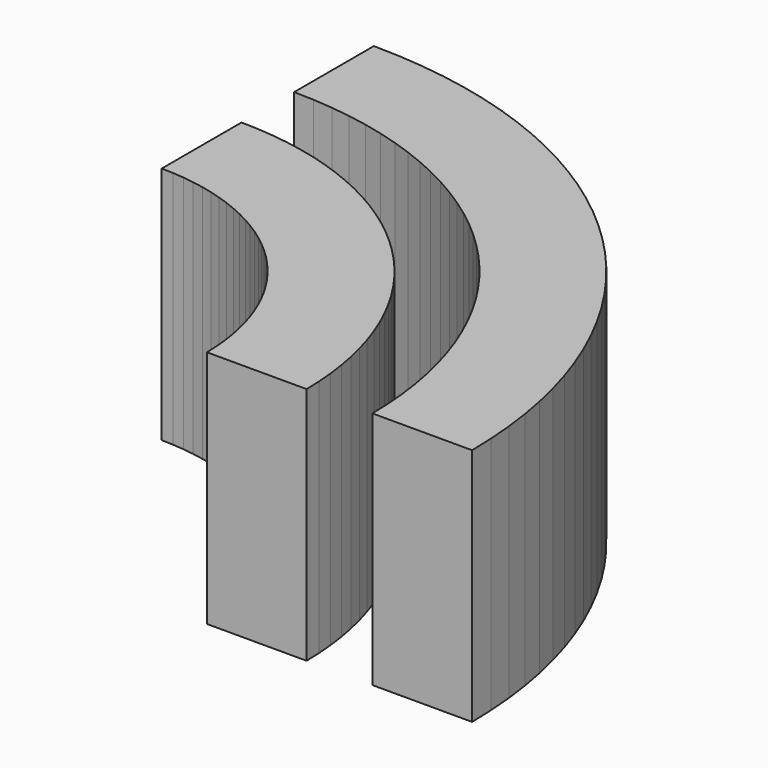
from build123d import *

# Parameters (mm, degrees)
F1_DEPTH = 25.4


with BuildPart() as f1:
    # F0 (on Top) → F1 (new body)
    with BuildSketch(Plane.XY):
        Polygon((1.968373, 64.932052), (0.226187, 64.987475), (0.226187, 64.656665), (0.226187, 64.325856), (0.226187, 63.995046), (0.226187, 63.664211), (0.226187, 63.333401), (0.226187, 63.002592), (0.226187, 62.671782), (0.226187, 62.340947), (0.226187, 62.010138), (0.226187, 61.679328), (0.226187, 61.348518), (0.226187, 61.017709), (0.226187, 60.686874), (0.226187, 60.356064), (0.226187, 60.025255), (0.226187, 59.694445), (0.226187, 59.36361), (0.226187, 59.0328), (0.226187, 58.701991), (0.226187, 58.371181), (0.226187, 58.040346), (0.226187, 57.709537), (0.226187, 57.378727), (0.226187, 57.047917), (0.226187, 56.717108), (0.226187, 56.386273), (0.226187, 56.055463), (0.226187, 55.724654), (0.226187, 55.393844), (0.226187, 55.063009), (0.226187, 54.732199), (0.226187, 54.40139), (1.434541, 54.360318), (2.626335, 54.260699), (3.800196, 54.10393), (4.954727, 53.891409), (6.088507, 53.624556), (7.200163, 53.304719), (8.288274, 52.933346), (9.351493, 52.511808), (10.388397, 52.041476), (11.397564, 51.523798), (12.377649, 50.960122), (13.327228, 50.351868), (14.244904, 49.700409), (15.129307, 49.007192), (15.979013, 48.273538), (16.792651, 47.500921), (17.568824, 46.690686), (18.30611, 45.844231), (19.003137, 44.962953), (19.658508, 44.048274), (20.270826, 43.101565), (20.838693, 42.124224), (21.360714, 41.117672), (21.835491, 40.083257), (22.261652, 39.022426), (22.637775, 37.936526), (22.962464, 36.826977), (23.234345, 35.695179), (23.452023, 34.542527), (23.614101, 33.370418), (23.719155, 32.180225), (23.765815, 30.97337), (24.096701, 30.97337), (24.427586, 30.97337), (24.758472, 30.97337), (25.089333, 30.97337), (25.420218, 30.97337), (25.751104, 30.97337), (26.08199, 30.97337), (26.41285, 30.97337), (26.743736, 30.97337), (27.074622, 30.97337), (27.405508, 30.97337), (27.736394, 30.97337), (28.067254, 30.97337), (28.39814, 30.97337), (28.729026, 30.97337), (29.059911, 30.97337), (29.390772, 30.97337), (29.721658, 30.97337), (30.052543, 30.97337), (30.383429, 30.97337), (30.71429, 30.97337), (31.045175, 30.97337), (31.376061, 30.97337), (31.706947, 30.97337), (32.037833, 30.97337), (32.368693, 30.97337), (32.699579, 30.97337), (33.030465, 30.97337), (33.361351, 30.97337), (33.692211, 30.97337), (34.023097, 30.97337), (34.353983, 30.97337), (34.29287, 32.714159), (34.145601, 34.432519), (33.914359, 36.126268), (33.601203, 37.793295), (33.208316, 39.431493), (32.737806, 41.038704), (32.191808, 42.612818), (31.572429, 44.151702), (30.881803, 45.653249), (30.122063, 47.115298), (29.295344, 48.535742), (28.403753, 49.912448), (27.449424, 51.243306), (26.434491, 52.526184), (25.361087, 53.758948), (24.231321, 54.939463), (23.047325, 56.065598), (21.811209, 57.135243), (20.52513, 58.14629), (19.191199, 59.09658), (17.811572, 59.98398), (16.388334, 60.806381), (14.923618, 61.561675), (13.419582, 62.247704), (11.87831, 62.862333), (10.301961, 63.40348), (8.692667, 63.86896), (7.052513, 64.256691), (5.383682, 64.564539), (3.688258, 64.790371), align=None)
        Polygon((2.87241, 82.477788), (0.226187, 82.556096), (0.226187, 82.225363), (0.226187, 81.894629), (0.226187, 81.563896), (0.226187, 81.233162), (0.226187, 80.902454), (0.226187, 80.571721), (0.226187, 80.240988), (0.226187, 79.910254), (0.226187, 79.579521), (0.226187, 79.248787), (0.226187, 78.918079), (0.226187, 78.587346), (0.226187, 78.256613), (0.226187, 77.925879), (0.226187, 77.595146), (0.226187, 77.264412), (0.226187, 76.933704), (0.226187, 76.602971), (0.226187, 76.272238), (0.226187, 75.941504), (0.226187, 75.610771), (0.226187, 75.280037), (0.226187, 74.949329), (0.226187, 74.618596), (0.226187, 74.287863), (0.226187, 73.957129), (0.226187, 73.626396), (0.226187, 73.295662), (0.226187, 72.964954), (0.226187, 72.634221), (0.226187, 72.303488), (0.226187, 71.972754), (2.338705, 71.908721), (4.422826, 71.741157), (6.476035, 71.472577), (8.495843, 71.105497), (10.479735, 70.642378), (12.425223, 70.085737), (14.329791, 69.438063), (16.190951, 68.701869), (18.006212, 67.879646), (19.773062, 66.973907), (21.48901, 65.987143), (23.151567, 64.921841), (24.758218, 63.780492), (26.30645, 62.565636), (27.793798, 61.279735), (29.217747, 59.925331), (30.575783, 58.504861), (31.865418, 57.020866), (33.084186, 55.475835), (34.229523, 53.872282), (35.29899, 52.212672), (36.290047, 50.499543), (37.20023, 48.735361), (38.027, 46.922639), (38.767893, 45.063893), (39.420394, 43.161585), (39.982013, 41.218231), (40.450237, 39.236371), (40.822575, 37.218417), (41.096514, 35.16696), (41.269564, 33.08444), (41.339262, 30.97337), (41.669995, 30.97337), (42.000703, 30.97337), (42.331437, 30.97337), (42.66217, 30.97337), (42.992904, 30.97337), (43.323637, 30.97337), (43.65437, 30.97337), (43.985078, 30.97337), (44.315812, 30.97337), (44.646545, 30.97337), (44.977279, 30.97337), (45.308012, 30.97337), (45.638745, 30.97337), (45.969453, 30.97337), (46.300187, 30.97337), (46.63092, 30.97337), (46.961654, 30.97337), (47.292387, 30.97337), (47.62312, 30.97337), (47.953828, 30.97337), (48.284562, 30.97337), (48.615295, 30.97337), (48.946029, 30.97337), (49.276762, 30.97337), (49.607495, 30.97337), (49.938203, 30.97337), (50.268937, 30.97337), (50.59967, 30.97337), (50.930404, 30.97337), (51.261137, 30.97337), (51.59187, 30.97337), (51.922578, 30.97337), (51.838581, 33.618195), (51.623443, 36.228706), (51.280441, 38.80165), (50.812776, 41.333801), (50.223674, 43.821934), (49.516411, 46.262823), (48.694162, 48.653217), (47.760204, 50.98989), (46.717737, 53.269642), (45.569988, 55.489221), (44.320231, 57.645376), (42.971644, 59.734907), (41.527476, 61.754563), (39.990979, 63.701117), (38.365379, 65.571345), (36.653876, 67.362019), (34.859722, 69.069915), (32.986167, 70.691756), (31.036387, 72.224367), (29.013683, 73.664496), (26.921231, 75.008892), (24.762282, 76.254356), (22.540062, 77.397635), (20.257821, 78.435505), (17.91876, 79.364738), (15.526106, 80.18211), (13.083134, 80.88437), (10.593045, 81.46829), (8.05909, 81.930672), (5.484444, 82.268238), align=None)
    extrude(amount=F1_DEPTH)


solid = f1.part
